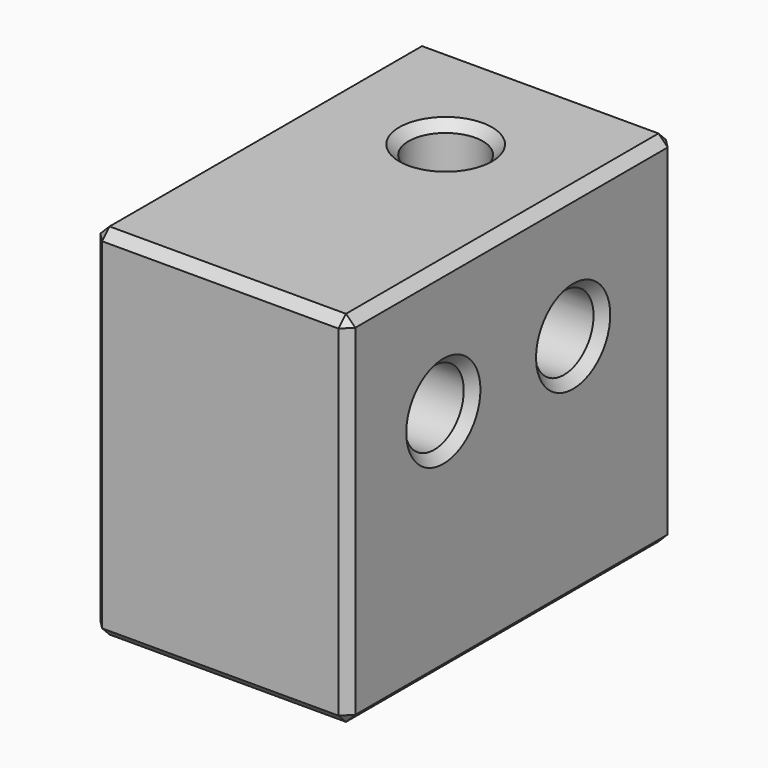
from build123d import *

# Parameters (mm, degrees)
SKETCH034_W           = 17.65
SKETCH034_H           = 15.5
PAD010_DEPTH          = 11
SKETCH035_R           = 1.6
POCKET018_DEPTH       = 11.001
SKETCH036_R           = 1.6
POCKET019_DEPTH       = 5
CHAMFER003015002_SIZE = 0.4


with BuildPart() as part:
    # Sketch034 → Pad010 (new body)
    with BuildSketch(Plane.YZ):
        with Locations((8.925, 7.75)):
            Rectangle(SKETCH034_W, SKETCH034_H)
    extrude(amount=-PAD010_DEPTH)

    # Sketch035 (on Face6 of Pad010) → Pocket018 (cut, through all)
    with BuildSketch(Plane(origin=(-11, 0, 0), x_dir=(0, 1, 0), z_dir=(-1, 0, 0))):
        with Locations((5.25, -10)):
            Circle(SKETCH035_R)
        with Locations((12.25, -10)):
            Circle(SKETCH035_R)
    extrude(amount=-POCKET018_DEPTH, mode=Mode.SUBTRACT)

    # Sketch036 (on Face6 of Pocket018) → Pocket019 (cut)
    with BuildSketch(Plane(origin=(0, 0, 15.5), x_dir=(0, -1, 0), z_dir=(0, 0, 1))):
        with Locations((-12.25, -5.5)):
            Circle(SKETCH036_R)
    extrude(amount=-POCKET019_DEPTH, mode=Mode.SUBTRACT)

    # Chamfer003015002
    chamfer003015002_edges = [part.edges().sort_by_distance(p)[0] for p in [
        (-11, 8.925, 0),
        (-11, 0.1, 7.75),
        (-11, 17.75, 7.75),
        (-11, 8.925, 15.5),
        (-11, 10.65, 10),
        (-11, 3.65, 10),
        (-5.5, 17.75, 0),
        (-5.5, 17.75, 15.5),
        (0, 17.75, 7.75),
        (-5.5, 0.1, 0),
        (0, 8.925, 0),
        (0, 8.925, 15.5),
        (-5.5, 0.1, 15.5),
        (-5.5, 13.85, 15.5),
        (0, 0.1, 7.75),
        (0, 10.65, 10),
        (0, 3.65, 10),
    ]]
    chamfer(chamfer003015002_edges, length=CHAMFER003015002_SIZE)


with BuildPart() as part_1:
    # Body005020 placement: moved
    add(part.part.moved(Location((-20, 11, 0))))


solid = part_1.part
